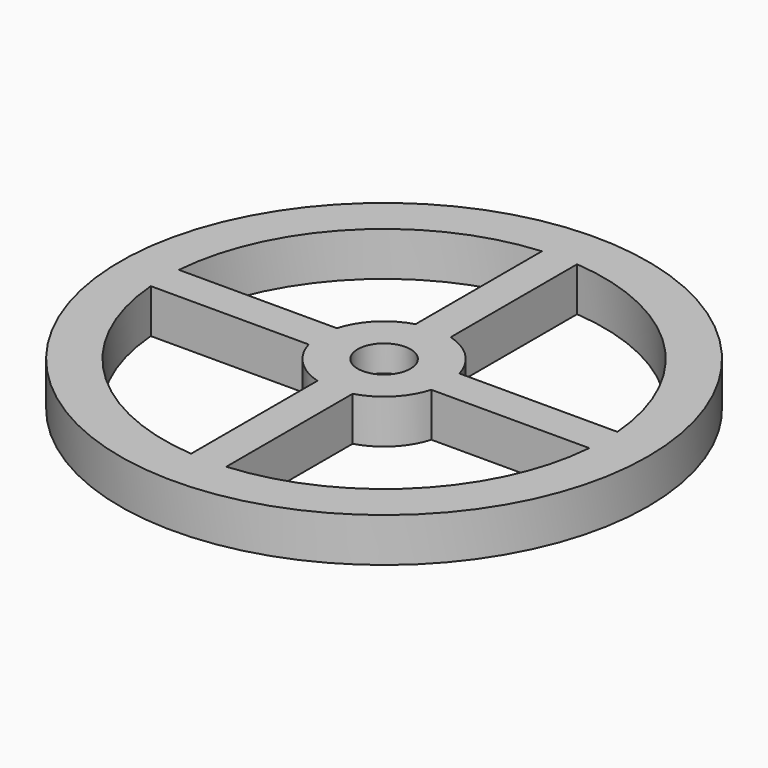
from build123d import *

# Parameters (mm, degrees)
F0_R     = 30
F0_R_2   = 1.25
F1_DEPTH = 5
F2_R     = 3
F2_R_2   = 1.25
F3_DEPTH = 3


with BuildPart() as f1:
    # F0 (on Top) → F1 (new body)
    with BuildSketch(Plane.XY):
        Circle(F0_R)
        with BuildLine():
            ThreePointArc((-6.96868, -2), (-5.126524, -5.126524), (-2, -6.96868))
            Line((-2, -6.96868), (-2, -24.919872))
            ThreePointArc((-2, -24.919872), (-17.67767, -17.67767), (-24.919872, -2))
            Line((-24.919872, -2), (-6.96868, -2))
        make_face(mode=Mode.SUBTRACT)
        with BuildLine():
            Line((2, -24.919872), (2, -6.96868))
            ThreePointArc((2, -6.96868), (5.126524, -5.126524), (6.96868, -2))
            Line((6.96868, -2), (24.919872, -2))
            ThreePointArc((24.919872, -2), (17.67767, -17.67767), (2, -24.919872))
        make_face(mode=Mode.SUBTRACT)
        with BuildLine():
            ThreePointArc((-24.919872, 2), (-17.67767, 17.67767), (-2, 24.919872))
            Line((-2, 24.919872), (-2, 6.96868))
            ThreePointArc((-2, 6.96868), (-5.126524, 5.126524), (-6.96868, 2))
            Line((-6.96868, 2), (-24.919872, 2))
        make_face(mode=Mode.SUBTRACT)
        Circle(F0_R_2, mode=Mode.SUBTRACT)
        with BuildLine():
            ThreePointArc((6.96868, 2), (5.126524, 5.126524), (2, 6.96868))
            Line((2, 6.96868), (2, 24.919872))
            ThreePointArc((2, 24.919872), (17.67767, 17.67767), (24.919872, 2))
            Line((24.919872, 2), (6.96868, 2))
        make_face(mode=Mode.SUBTRACT)
    extrude(amount=F1_DEPTH)

    # F2 (on face) → F3 (cut)
    with BuildSketch(Plane.XY.offset(5)):
        Circle(F2_R)
        Circle(F2_R_2, mode=Mode.SUBTRACT)
    extrude(amount=-F3_DEPTH, mode=Mode.SUBTRACT)


solid = f1.part
